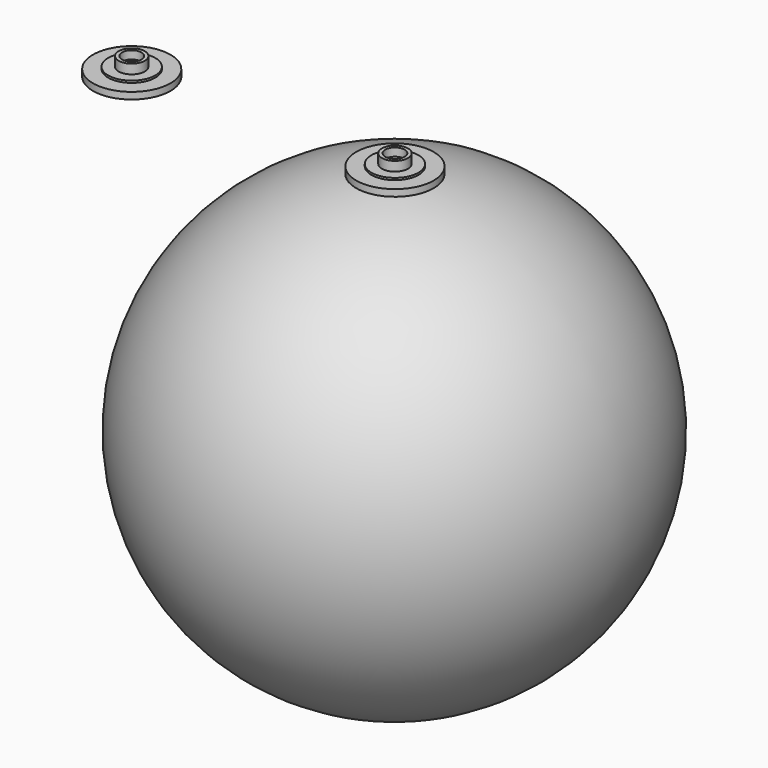
from build123d import *

# Parameters (mm, degrees)
F0_R     = 3.875
F1_DEPTH = 3.4
F0_R_2   = 7
F2_DEPTH = 0.6
F0_R_3   = 11.5
F3_DEPTH = 2
F4_T     = -1
F4_2_T   = -1


with BuildPart() as f1:
    # F0 (on Top) → F1 (new body)
    with BuildSketch(Plane.XY):
        with Locations((-39.0570946038, 0)):
            Circle(F0_R)
    extrude(amount=F1_DEPTH)

    # F4
    f4_openings = [f1.faces().sort_by_distance(p)[0] for p in [
        (-39.057095, 0, 3.4),
    ]]
    offset(amount=F4_T, openings=f4_openings)


with BuildPart() as f1b:
    # F0 (on Top) → F1, piece 2 (new body)
    with BuildSketch(Plane.XY):
        with Locations((39.0570946038, 0)):
            Circle(F0_R)
    extrude(amount=F1_DEPTH)

    # F4#2
    f4_2_openings = [f1b.faces().sort_by_distance(p)[0] for p in [
        (39.057095, 0, 3.4),
    ]]
    offset(amount=F4_2_T, openings=f4_2_openings)


with BuildPart() as f2:
    # F0 (on Top) → F2 (new body)
    with BuildSketch(Plane.XY):
        with Locations((-39.0570946038, 0)):
            Circle(F0_R_2)
        with Locations((-39.0570946038, 0)):
            Circle(F0_R, mode=Mode.SUBTRACT)
    extrude(amount=F2_DEPTH)


with BuildPart() as f2b:
    # F0 (on Top) → F2, piece 2 (new body)
    with BuildSketch(Plane.XY):
        with Locations((39.0570946038, 0)):
            Circle(F0_R_2)
        with Locations((39.0570946038, 0)):
            Circle(F0_R, mode=Mode.SUBTRACT)
    extrude(amount=F2_DEPTH)


with BuildPart() as f3:
    # F0 (on Top) → F3 (new body)
    with BuildSketch(Plane.XY):
        with Locations((-39.0570946038, 0)):
            Circle(F0_R_3)
        with Locations((-39.0570946038, 0)):
            Circle(F0_R_2, mode=Mode.SUBTRACT)
        with Locations((-39.0570946038, 0)):
            Circle(F0_R_2)
        with Locations((-39.0570946038, 0)):
            Circle(F0_R, mode=Mode.SUBTRACT)
        with Locations((-39.0570946038, 0)):
            Circle(F0_R)
    extrude(amount=-F3_DEPTH)


with BuildPart() as f3b:
    # F0 (on Top) → F3, piece 2 (new body)
    with BuildSketch(Plane.XY):
        with Locations((39.0570946038, 0)):
            Circle(F0_R_3)
        with Locations((39.0570946038, 0)):
            Circle(F0_R_2, mode=Mode.SUBTRACT)
        with Locations((39.0570946038, 0)):
            Circle(F0_R_2)
        with Locations((39.0570946038, 0)):
            Circle(F0_R, mode=Mode.SUBTRACT)
        with Locations((39.0570946038, 0)):
            Circle(F0_R)
    extrude(amount=-F3_DEPTH)

    # F5 (on Front) → F6 (revolve)
    with BuildSketch(Plane.XZ):
        with BuildLine():
            Line((38.8754345477, -69.0311416984), (38.8754345477, -136.6568365187))
            ThreePointArc((38.8754345477, -136.6568365187), (106.501129368, -69.0311416984), (38.8754345477, -1.405446878))
            Line((38.8754345477, -1.405446878), (38.8754345477, -69.0311416984))
        make_face()
    revolve(axis=Axis((38.8754345477, 0, -102.8439891085), (0, 0, -1)))


solid = Compound([f1.part, f1b.part, f2.part, f2b.part, f3.part, f3b.part])
